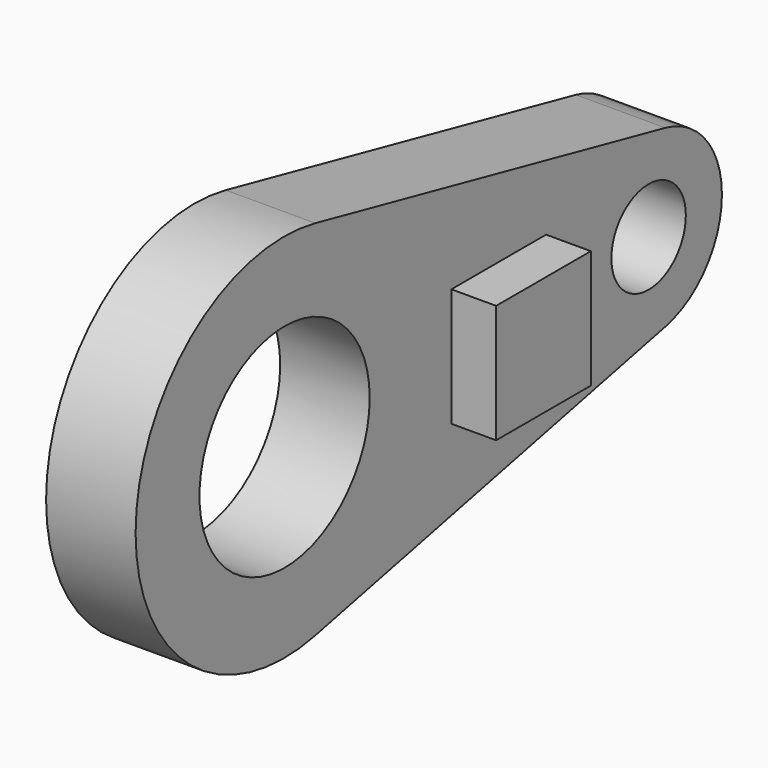
from build123d import *

# Parameters (mm, degrees)
F1_DEPTH = 25.4
F2_R     = 30.191545
F2_R_2   = 13.204956
F3_DEPTH = 46.73447
F4_W     = 33.58691
F4_H     = 33.58691
F5_DEPTH = 38.1


with BuildPart() as f1:
    # F0 (on Right) → F1 (new body)
    with BuildSketch(Plane.YZ):
        with BuildLine():
            ThreePointArc((-64.193385, -51.494292), (-34.284922, -33.102834), (-22.581748, 0))
            ThreePointArc((-22.581748, 0), (-34.284922, 33.102834), (-64.193385, 51.494292))
            ThreePointArc((-64.193385, 51.494292), (-127.917436, 0), (-64.193385, -51.494292))
        make_face()
        with BuildLine():
            ThreePointArc((-64.193385, 51.494292), (-34.284922, 33.102834), (-22.581748, 0))
            ThreePointArc((-22.581748, 0), (-34.284922, -33.102834), (-64.193385, -51.494292))
            Line((-64.193385, -51.494292), (59.976784, -24.834034))
            ThreePointArc((59.976784, -24.834034), (29.244732, 0), (59.976784, 24.834034))
            Line((59.976784, 24.834034), (-64.193385, 51.494292))
        make_face()
        with BuildLine():
            ThreePointArc((80.044732, 0), (74.400669, 15.964427), (59.976784, 24.834034))
            ThreePointArc((59.976784, 24.834034), (29.244732, 0), (59.976784, -24.834034))
            ThreePointArc((59.976784, -24.834034), (74.400669, -15.964427), (80.044732, 0))
        make_face()
    extrude(amount=F1_DEPTH)

    # F2 (on Right) → F3 (cut)
    with BuildSketch(Plane.YZ):
        with Locations((-75.075522, 0)):
            Circle(F2_R)
        with Locations((54.037802, 0)):
            Circle(F2_R_2)
    extrude(amount=F3_DEPTH, mode=Mode.SUBTRACT)

    # F4 (on Right) → F5 (join)
    with BuildSketch(Plane.YZ):
        with Locations((0.87742, -1.43759)):
            Rectangle(F4_W, F4_H)
    extrude(amount=F5_DEPTH)


solid = f1.part
